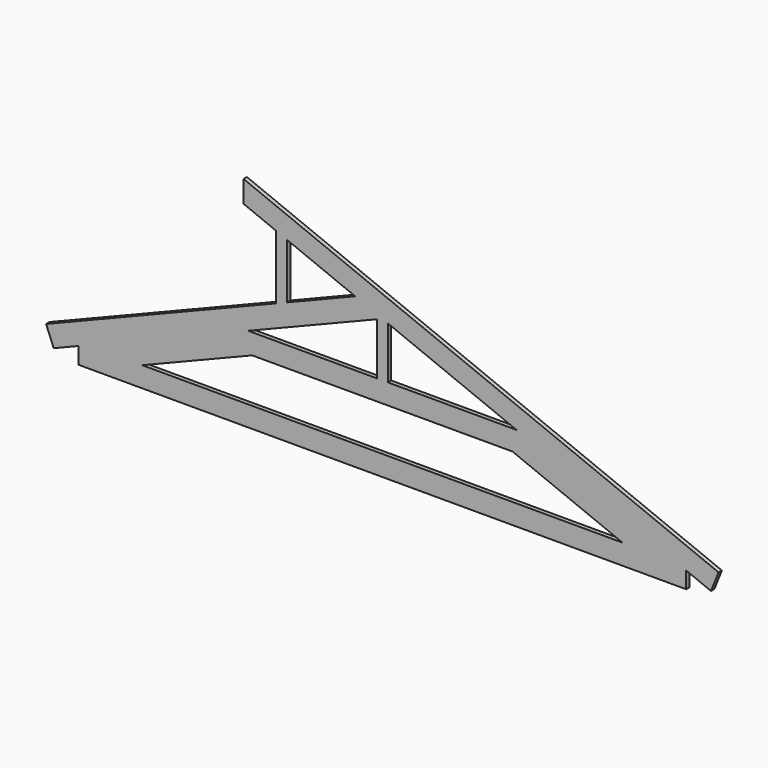
from build123d import *

# Parameters (mm, degrees)
F1_DEPTH = 45
F2_DEPTH = 45


with BuildPart() as f1:
    # F0 (on Front) → F1 (new body)
    with BuildSketch(Plane.XZ):
        Polygon((1994.721978, 700), (3285, 178.693841), (3552.586549, 70.581857), (3635, 274.562305), (-1500, 2349.236975), (-1500, 2111.959331), (-1150.021439, 1970.558814), (-1030.021439, 1922.075667), (-293.641388, 1624.558814), (0, 1505.919993), (60, 1481.678419), (1450.202871, 920), align=None)
        Polygon((-1150.021439, 1970.558814), (-1150.021439, 1278.558814), (-1030.021439, 1327.041961), (-1030.021439, 1922.075667), align=None)
        Polygon((-3552.586549, 70.581857), (-3285, 178.693841), (-1994.721978, 700), (-1450.202871, 920), (-60, 1481.678419), (0, 1505.919993), (-293.641388, 1624.558814), (-1030.021439, 1327.041961), (-1150.021439, 1278.558814), (-3635, 274.562305), align=None)
        Polygon((-3285, 0), (-3140, 0), (-2595.480892, 220), (-1407.439203, 700), (-1994.721978, 700), (-3285, 178.693841), align=None)
        Polygon((-1994.721978, 700), (-1407.439203, 700), (1407.439203, 700), (1994.721978, 700), (1450.202871, 920), (60, 920), (-60, 920), (-1450.202871, 920), align=None)
        Polygon((0, 1505.919993), (-60, 1481.678419), (-60, 920), (60, 920), (60, 1481.678419), align=None)
        Polygon((2595.480892, 220), (3140, 0), (3285, 0), (3285, 178.693841), (1994.721978, 700), (1407.439203, 700), align=None)
    extrude(amount=F1_DEPTH)


with BuildPart() as f2:
    # F0 (on Front) → F2 (new body)
    with BuildSketch(Plane.XZ):
        Polygon((-2595.480892, 220), (-3140, 0), (3140, 0), (2595.480892, 220), align=None)
        Polygon((2595.480892, 220), (3140, 0), (3285, 0), (3285, 178.693841), (1994.721978, 700), (1407.439203, 700), align=None)
        Polygon((1994.721978, 700), (3285, 178.693841), (3552.586549, 70.581857), (3635, 274.562305), (-1500, 2349.236975), (-1500, 2111.959331), (-1150.021439, 1970.558814), (-1030.021439, 1922.075667), (-293.641388, 1624.558814), (0, 1505.919993), (60, 1481.678419), (1450.202871, 920), align=None)
        Polygon((-1994.721978, 700), (-1407.439203, 700), (1407.439203, 700), (1994.721978, 700), (1450.202871, 920), (60, 920), (-60, 920), (-1450.202871, 920), align=None)
        Polygon((0, 1505.919993), (-60, 1481.678419), (-60, 920), (60, 920), (60, 1481.678419), align=None)
        Polygon((-3552.586549, 70.581857), (-3285, 178.693841), (-1994.721978, 700), (-1450.202871, 920), (-60, 1481.678419), (0, 1505.919993), (-293.641388, 1624.558814), (-1030.021439, 1327.041961), (-1150.021439, 1278.558814), (-3635, 274.562305), align=None)
        Polygon((-1150.021439, 1970.558814), (-1150.021439, 1278.558814), (-1030.021439, 1327.041961), (-1030.021439, 1922.075667), align=None)
        Polygon((-3285, 0), (-3140, 0), (-2595.480892, 220), (-1407.439203, 700), (-1994.721978, 700), (-3285, 178.693841), align=None)
    extrude(amount=F2_DEPTH)


solid = Compound([f1.part, f2.part])
